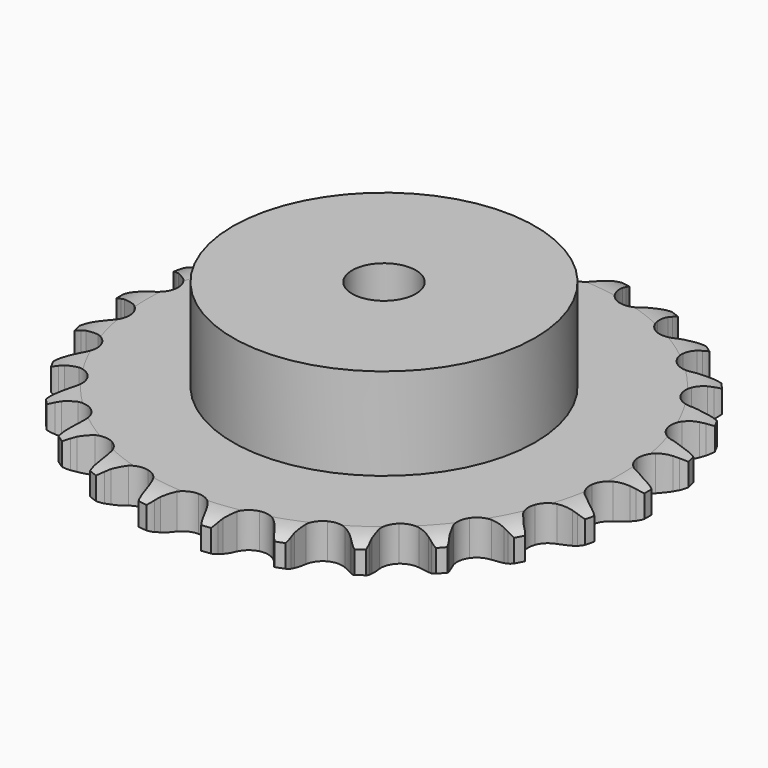
from build123d import *

# Parameters (mm, degrees)
PAD_DEPTH         = 11.1
SKETCH001_R       = 47.5
PAD001_DEPTH      = 40
SKETCH002_R       = 10
POCKET_DEPTH      = 0.001
POCKET_DEPTH_BACK = 40.001


with BuildPart() as part:
    # Sprocket → Pad (new body)
    with BuildSketch(Plane.XY):
        with BuildLine():
            ThreePointArc((-10.2495, 84.412229), (-8.684067, 82.666915), (-7.573609, 80.602071))
            Line((-7.573609, 80.602071), (-6.986274, 79.108095))
            ThreePointArc((-6.986274, 79.108095), (-6.051469, 77.141444), (-4.854497, 75.322423))
            ThreePointArc((-4.854497, 75.322423), (-2.708592, 73.552266), (0, 72.918314))
            ThreePointArc((0, 72.918314), (2.708592, 73.552266), (4.854497, 75.322423))
            ThreePointArc((4.854497, 75.322423), (6.051469, 77.141444), (6.986274, 79.108095))
            Line((6.986274, 79.108095), (7.573609, 80.602071))
            ThreePointArc((7.573609, 80.602071), (8.684067, 82.666915), (10.2495, 84.412229))
            ThreePointArc((10.2495, 84.412229), (11.351764, 82.342998), (11.935805, 80.072404))
            Line((11.935805, 80.072404), (12.148541, 78.481282))
            ThreePointArc((12.148541, 78.481282), (12.585532, 76.348065), (13.312402, 74.295448))
            ThreePointArc((13.312402, 74.295448), (14.972324, 72.063179), (17.450495, 70.79944))
            ThreePointArc((17.450495, 70.79944), (20.232095, 70.766762), (22.73927, 71.971933))
            Line((22.73927, 71.971933), (25.715072, 75.137432))
            ThreePointArc((25.715072, 75.137432), (26.162281, 75.804256), (26.642871, 76.447438))
            ThreePointArc((26.642871, 76.447438), (28.215212, 78.186532), (30.152837, 79.506497))
            ThreePointArc((30.152837, 79.506497), (30.727872, 77.233605), (30.751553, 74.88922))
            Line((30.751553, 74.88922), (30.577326, 73.293422))
            ThreePointArc((30.577326, 73.293422), (30.491107, 71.117614), (30.705632, 68.950691))
            ThreePointArc((30.705632, 68.950691), (31.783103, 66.386042), (33.88683, 64.56596))
            ThreePointArc((33.88683, 64.56596), (36.579781, 63.868552), (39.302519, 64.438696))
            Line((39.302519, 64.438696), (42.949403, 66.800056))
            ThreePointArc((42.949403, 66.800056), (43.543198, 67.340479), (44.163747, 67.849958))
            ThreePointArc((44.163747, 67.849958), (46.106591, 69.162231), (48.303801, 69.980137))
            ThreePointArc((48.303801, 69.980137), (48.318187, 67.635676), (47.780132, 65.353748))
            Line((47.780132, 65.353748), (47.229069, 63.846016))
            ThreePointArc((47.229069, 63.846016), (46.62465, 61.754066), (46.314363, 59.59877))
            ThreePointArc((46.314363, 59.59877), (46.746764, 56.85079), (48.353786, 54.580142))
            ThreePointArc((48.353786, 54.580142), (50.801584, 53.258533), (53.581649, 53.160517))
            Line((53.581649, 53.160517), (57.687671, 54.580503))
            ThreePointArc((57.687671, 54.580503), (58.393543, 54.963117), (59.117987, 55.309285))
            ThreePointArc((59.117987, 55.309285), (61.318422, 56.118473), (63.647523, 56.386785))
            ThreePointArc((63.647523, 56.386785), (63.100425, 54.107007), (62.031904, 52.020152))
            Line((62.031904, 52.020152), (61.13603, 50.68811))
            ThreePointArc((61.13603, 50.68811), (60.048538, 48.801596), (59.231471, 46.783186))
            ThreePointArc((59.231471, 46.783186), (58.993672, 44.011577), (60.010596, 41.422324))
            ThreePointArc((60.010596, 41.422324), (62.070984, 39.553322), (64.746808, 38.792841))
            Line((64.746808, 38.792841), (69.073341, 39.188929))
            ThreePointArc((69.073341, 39.188929), (69.850268, 39.391499), (70.636504, 39.554237))
            ThreePointArc((70.636504, 39.554237), (72.96665, 39.813313), (75.292282, 39.516438))
            ThreePointArc((75.292282, 39.516438), (74.215496, 37.433836), (72.678607, 35.663335))
            Line((72.678607, 35.663335), (71.489986, 34.584397))
            ThreePointArc((71.489986, 34.584397), (69.982623, 33.012954), (68.706261, 31.248733))
            ThreePointArc((68.706261, 31.248733), (67.812083, 28.61457), (68.179808, 25.85719))
            ThreePointArc((68.179808, 25.85719), (69.733043, 23.549415), (72.149118, 22.170666))
            Line((72.149118, 22.170666), (76.44472, 21.519837))
            ThreePointArc((76.44472, 21.519837), (77.247549, 21.530591), (78.049884, 21.500441))
            ThreePointArc((78.049884, 21.500441), (80.374321, 21.194348), (82.561328, 20.34954))
            ThreePointArc((82.561328, 20.34954), (81.017432, 18.585146), (79.101493, 17.233894))
            Line((79.101493, 17.233894), (77.689205, 16.470763))
            ThreePointArc((77.689205, 16.470763), (75.849572, 15.30572), (74.188093, 13.898217))
            ThreePointArc((74.188093, 13.898217), (72.689502, 11.554589), (72.386657, 8.789331))
            ThreePointArc((72.386657, 8.789331), (73.342472, 6.176903), (75.358383, 4.260013))
            Line((75.358383, 4.260013), (79.37341, 2.600091))
            ThreePointArc((79.37341, 2.600091), (80.155483, 2.418402), (80.927288, 2.197118))
            ThreePointArc((80.927288, 2.197118), (83.110929, 1.343645), (85.03221, 0))
            ThreePointArc((85.03221, 0), (83.110929, -1.343645), (80.927288, -2.197118))
            Line((80.927288, -2.197118), (79.37341, -2.600091))
            ThreePointArc((79.37341, -2.600091), (77.30842, -3.291027), (75.358383, -4.260013))
            ThreePointArc((75.358383, -4.260013), (73.342472, -6.176903), (72.386657, -8.789331))
            ThreePointArc((72.386657, -8.789331), (72.689502, -11.554589), (74.188093, -13.898217))
            Line((74.188093, -13.898217), (77.689205, -16.470763))
            ThreePointArc((77.689205, -16.470763), (78.405072, -16.834335), (79.101493, -17.233894))
            ThreePointArc((79.101493, -17.233894), (81.017432, -18.585146), (82.561328, -20.34954))
            ThreePointArc((82.561328, -20.34954), (80.374321, -21.194348), (78.049884, -21.500441))
            Line((78.049884, -21.500441), (76.44472, -21.519837))
            ThreePointArc((76.44472, -21.519837), (74.274383, -21.696512), (72.149118, -22.170666))
            ThreePointArc((72.149118, -22.170666), (69.733043, -23.549415), (68.179808, -25.85719))
            ThreePointArc((68.179808, -25.85719), (67.812083, -28.61457), (68.706261, -31.248733))
            Line((68.706261, -31.248733), (71.489986, -34.584397))
            ThreePointArc((71.489986, -34.584397), (72.098043, -35.108722), (72.678607, -35.663335))
            ThreePointArc((72.678607, -35.663335), (74.215496, -37.433836), (75.292282, -39.516438))
            ThreePointArc((75.292282, -39.516438), (72.96665, -39.813313), (70.636504, -39.554237))
            Line((70.636504, -39.554237), (69.073341, -39.188929))
            ThreePointArc((69.073341, -39.188929), (66.92379, -38.841074), (64.746808, -38.792841))
            ThreePointArc((64.746808, -38.792841), (62.070984, -39.553322), (60.010596, -41.422324))
            ThreePointArc((60.010596, -41.422324), (58.993672, -44.011577), (59.231471, -46.783186))
            Line((59.231471, -46.783186), (61.13603, -50.68811))
            ThreePointArc((61.13603, -50.68811), (61.600938, -51.342717), (62.031904, -52.020152))
            ThreePointArc((62.031904, -52.020152), (63.100425, -54.107007), (63.647523, -56.386785))
            ThreePointArc((63.647523, -56.386785), (61.318422, -56.118473), (59.117987, -55.309285))
            Line((59.117987, -55.309285), (57.687671, -54.580503))
            ThreePointArc((57.687671, -54.580503), (55.683828, -53.728334), (53.581649, -53.160517))
            ThreePointArc((53.581649, -53.160517), (50.801584, -53.258533), (48.353786, -54.580142))
            ThreePointArc((48.353786, -54.580142), (46.746764, -56.85079), (46.314363, -59.59877))
            Line((46.314363, -59.59877), (47.229069, -63.846016))
            ThreePointArc((47.229069, -63.846016), (47.523811, -64.59286), (47.780132, -65.353748))
            ThreePointArc((47.780132, -65.353748), (48.318187, -67.635676), (48.303801, -69.980137))
            ThreePointArc((48.303801, -69.980137), (46.106591, -69.162231), (44.163747, -67.849958))
            Line((44.163747, -67.849958), (42.949403, -66.800056))
            ThreePointArc((42.949403, -66.800056), (41.207726, -65.493099), (39.302519, -64.438696))
            ThreePointArc((39.302519, -64.438696), (36.579781, -63.868552), (33.88683, -64.56596))
            ThreePointArc((33.88683, -64.56596), (31.783103, -66.386042), (30.705632, -68.950691))
            Line((30.705632, -68.950691), (30.577326, -73.293422))
            ThreePointArc((30.577326, -73.293422), (30.684772, -74.089102), (30.751553, -74.88922))
            ThreePointArc((30.751553, -74.88922), (30.727872, -77.233605), (30.152837, -79.506497))
            ThreePointArc((30.152837, -79.506497), (28.215212, -78.186532), (26.642871, -76.447438))
            Line((26.642871, -76.447438), (25.715072, -75.137432))
            ThreePointArc((25.715072, -75.137432), (24.33678, -73.451642), (22.73927, -71.971933))
            ThreePointArc((22.73927, -71.971933), (20.232095, -70.766762), (17.450495, -70.79944))
            ThreePointArc((17.450495, -70.79944), (14.972324, -72.063179), (13.312402, -74.295448))
            Line((13.312402, -74.295448), (12.148541, -78.481282))
            ThreePointArc((12.148541, -78.481282), (12.062445, -79.279553), (11.935805, -80.072404))
            ThreePointArc((11.935805, -80.072404), (11.351764, -82.342998), (10.2495, -84.412229))
            ThreePointArc((10.2495, -84.412229), (8.684067, -82.666915), (7.573609, -80.602071))
            Line((7.573609, -80.602071), (6.986274, -79.108095))
            ThreePointArc((6.986274, -79.108095), (6.051469, -77.141444), (4.854497, -75.322423))
            ThreePointArc((4.854497, -75.322423), (2.708592, -73.552266), (0, -72.918314))
            ThreePointArc((0, -72.918314), (-2.708592, -73.552266), (-4.854497, -75.322423))
            Line((-4.854497, -75.322423), (-6.986274, -79.108095))
            ThreePointArc((-6.986274, -79.108095), (-7.260906, -79.862566), (-7.573609, -80.602071))
            ThreePointArc((-7.573609, -80.602071), (-8.684067, -82.666915), (-10.2495, -84.412229))
            ThreePointArc((-10.2495, -84.412229), (-11.351764, -82.342998), (-11.935805, -80.072404))
            Line((-11.935805, -80.072404), (-12.148541, -78.481282))
            ThreePointArc((-12.148541, -78.481282), (-12.585532, -76.348065), (-13.312402, -74.295448))
            ThreePointArc((-13.312402, -74.295448), (-14.972324, -72.063179), (-17.450495, -70.79944))
            ThreePointArc((-17.450495, -70.79944), (-20.232095, -70.766762), (-22.73927, -71.971933))
            Line((-22.73927, -71.971933), (-25.715072, -75.137432))
            ThreePointArc((-25.715072, -75.137432), (-26.162281, -75.804256), (-26.642871, -76.447438))
            ThreePointArc((-26.642871, -76.447438), (-28.215212, -78.186532), (-30.152837, -79.506497))
            ThreePointArc((-30.152837, -79.506497), (-30.727872, -77.233605), (-30.751553, -74.88922))
            Line((-30.751553, -74.88922), (-30.577326, -73.293422))
            ThreePointArc((-30.577326, -73.293422), (-30.491107, -71.117614), (-30.705632, -68.950691))
            ThreePointArc((-30.705632, -68.950691), (-31.783103, -66.386042), (-33.88683, -64.56596))
            ThreePointArc((-33.88683, -64.56596), (-36.579781, -63.868552), (-39.302519, -64.438696))
            Line((-39.302519, -64.438696), (-42.949403, -66.800056))
            ThreePointArc((-42.949403, -66.800056), (-43.543198, -67.340479), (-44.163747, -67.849958))
            ThreePointArc((-44.163747, -67.849958), (-46.106591, -69.162231), (-48.303801, -69.980137))
            ThreePointArc((-48.303801, -69.980137), (-48.318187, -67.635676), (-47.780132, -65.353748))
            Line((-47.780132, -65.353748), (-47.229069, -63.846016))
            ThreePointArc((-47.229069, -63.846016), (-46.62465, -61.754066), (-46.314363, -59.59877))
            ThreePointArc((-46.314363, -59.59877), (-46.746764, -56.85079), (-48.353786, -54.580142))
            ThreePointArc((-48.353786, -54.580142), (-50.801584, -53.258533), (-53.581649, -53.160517))
            Line((-53.581649, -53.160517), (-57.687671, -54.580503))
            ThreePointArc((-57.687671, -54.580503), (-58.393543, -54.963117), (-59.117987, -55.309285))
            ThreePointArc((-59.117987, -55.309285), (-61.318422, -56.118473), (-63.647523, -56.386785))
            ThreePointArc((-63.647523, -56.386785), (-63.100425, -54.107007), (-62.031904, -52.020152))
            Line((-62.031904, -52.020152), (-61.13603, -50.68811))
            ThreePointArc((-61.13603, -50.68811), (-60.048538, -48.801596), (-59.231471, -46.783186))
            ThreePointArc((-59.231471, -46.783186), (-58.993672, -44.011577), (-60.010596, -41.422324))
            ThreePointArc((-60.010596, -41.422324), (-62.070984, -39.553322), (-64.746808, -38.792841))
            Line((-64.746808, -38.792841), (-69.073341, -39.188929))
            ThreePointArc((-69.073341, -39.188929), (-69.850268, -39.391499), (-70.636504, -39.554237))
            ThreePointArc((-70.636504, -39.554237), (-72.96665, -39.813313), (-75.292282, -39.516438))
            ThreePointArc((-75.292282, -39.516438), (-74.215496, -37.433836), (-72.678607, -35.663335))
            Line((-72.678607, -35.663335), (-71.489986, -34.584397))
            ThreePointArc((-71.489986, -34.584397), (-69.982623, -33.012954), (-68.706261, -31.248733))
            ThreePointArc((-68.706261, -31.248733), (-67.812083, -28.61457), (-68.179808, -25.85719))
            ThreePointArc((-68.179808, -25.85719), (-69.733043, -23.549415), (-72.149118, -22.170666))
            Line((-72.149118, -22.170666), (-76.44472, -21.519837))
            ThreePointArc((-76.44472, -21.519837), (-77.247549, -21.530591), (-78.049884, -21.500441))
            ThreePointArc((-78.049884, -21.500441), (-80.374321, -21.194348), (-82.561328, -20.34954))
            ThreePointArc((-82.561328, -20.34954), (-81.017432, -18.585146), (-79.101493, -17.233894))
            Line((-79.101493, -17.233894), (-77.689205, -16.470763))
            ThreePointArc((-77.689205, -16.470763), (-75.849572, -15.30572), (-74.188093, -13.898217))
            ThreePointArc((-74.188093, -13.898217), (-72.689502, -11.554589), (-72.386657, -8.789331))
            ThreePointArc((-72.386657, -8.789331), (-73.342472, -6.176903), (-75.358383, -4.260013))
            Line((-75.358383, -4.260013), (-79.37341, -2.600091))
            ThreePointArc((-79.37341, -2.600091), (-80.155483, -2.418402), (-80.927288, -2.197118))
            ThreePointArc((-80.927288, -2.197118), (-83.110929, -1.343645), (-85.03221, 0))
            ThreePointArc((-85.03221, 0), (-83.110929, 1.343645), (-80.927288, 2.197118))
            Line((-80.927288, 2.197118), (-79.37341, 2.600091))
            ThreePointArc((-79.37341, 2.600091), (-77.30842, 3.291027), (-75.358383, 4.260013))
            ThreePointArc((-75.358383, 4.260013), (-73.342472, 6.176903), (-72.386657, 8.789331))
            ThreePointArc((-72.386657, 8.789331), (-72.689502, 11.554589), (-74.188093, 13.898217))
            Line((-74.188093, 13.898217), (-77.689205, 16.470763))
            ThreePointArc((-77.689205, 16.470763), (-78.405072, 16.834335), (-79.101493, 17.233894))
            ThreePointArc((-79.101493, 17.233894), (-81.017432, 18.585146), (-82.561328, 20.34954))
            ThreePointArc((-82.561328, 20.34954), (-80.374321, 21.194348), (-78.049884, 21.500441))
            Line((-78.049884, 21.500441), (-76.44472, 21.519837))
            ThreePointArc((-76.44472, 21.519837), (-74.274383, 21.696512), (-72.149118, 22.170666))
            ThreePointArc((-72.149118, 22.170666), (-69.733043, 23.549415), (-68.179808, 25.85719))
            ThreePointArc((-68.179808, 25.85719), (-67.812083, 28.61457), (-68.706261, 31.248733))
            Line((-68.706261, 31.248733), (-71.489986, 34.584397))
            ThreePointArc((-71.489986, 34.584397), (-72.098043, 35.108722), (-72.678607, 35.663335))
            ThreePointArc((-72.678607, 35.663335), (-74.215496, 37.433836), (-75.292282, 39.516438))
            ThreePointArc((-75.292282, 39.516438), (-72.96665, 39.813313), (-70.636504, 39.554237))
            Line((-70.636504, 39.554237), (-69.073341, 39.188929))
            ThreePointArc((-69.073341, 39.188929), (-66.92379, 38.841074), (-64.746808, 38.792841))
            ThreePointArc((-64.746808, 38.792841), (-62.070984, 39.553322), (-60.010596, 41.422324))
            ThreePointArc((-60.010596, 41.422324), (-58.993672, 44.011577), (-59.231471, 46.783186))
            Line((-59.231471, 46.783186), (-61.13603, 50.68811))
            ThreePointArc((-61.13603, 50.68811), (-61.600938, 51.342717), (-62.031904, 52.020152))
            ThreePointArc((-62.031904, 52.020152), (-63.100425, 54.107007), (-63.647523, 56.386785))
            ThreePointArc((-63.647523, 56.386785), (-61.318422, 56.118473), (-59.117987, 55.309285))
            Line((-59.117987, 55.309285), (-57.687671, 54.580503))
            ThreePointArc((-57.687671, 54.580503), (-55.683828, 53.728334), (-53.581649, 53.160517))
            ThreePointArc((-53.581649, 53.160517), (-50.801584, 53.258533), (-48.353786, 54.580142))
            ThreePointArc((-48.353786, 54.580142), (-46.746764, 56.85079), (-46.314363, 59.59877))
            Line((-46.314363, 59.59877), (-47.229069, 63.846016))
            ThreePointArc((-47.229069, 63.846016), (-47.523811, 64.59286), (-47.780132, 65.353748))
            ThreePointArc((-47.780132, 65.353748), (-48.318187, 67.635676), (-48.303801, 69.980137))
            ThreePointArc((-48.303801, 69.980137), (-46.106591, 69.162231), (-44.163747, 67.849958))
            Line((-44.163747, 67.849958), (-42.949403, 66.800056))
            ThreePointArc((-42.949403, 66.800056), (-41.207726, 65.493099), (-39.302519, 64.438696))
            ThreePointArc((-39.302519, 64.438696), (-36.579781, 63.868552), (-33.88683, 64.56596))
            ThreePointArc((-33.88683, 64.56596), (-31.783103, 66.386042), (-30.705632, 68.950691))
            Line((-30.705632, 68.950691), (-30.577326, 73.293422))
            ThreePointArc((-30.577326, 73.293422), (-30.684772, 74.089102), (-30.751553, 74.88922))
            ThreePointArc((-30.751553, 74.88922), (-30.727872, 77.233605), (-30.152837, 79.506497))
            ThreePointArc((-30.152837, 79.506497), (-28.215212, 78.186532), (-26.642871, 76.447438))
            Line((-26.642871, 76.447438), (-25.715072, 75.137432))
            ThreePointArc((-25.715072, 75.137432), (-24.33678, 73.451642), (-22.73927, 71.971933))
            ThreePointArc((-22.73927, 71.971933), (-20.232095, 70.766762), (-17.450495, 70.79944))
            ThreePointArc((-17.450495, 70.79944), (-14.972324, 72.063179), (-13.312402, 74.295448))
            Line((-13.312402, 74.295448), (-12.148541, 78.481282))
            ThreePointArc((-12.148541, 78.481282), (-12.062445, 79.279553), (-11.935805, 80.072404))
            ThreePointArc((-11.935805, 80.072404), (-11.351764, 82.342998), (-10.2495, 84.412229))
        make_face()
    extrude(amount=PAD_DEPTH)

    # Sketch → Groove (revolve, cut)
    with BuildSketch(Plane.XZ):
        with BuildLine():
            Line((74.464719, 0), (82.95, 0))
            Line((91.435281, 0), (82.95, 0))
            Line((91.435281, 11.1), (91.435281, 0))
            Line((82.95, 11.1), (91.435281, 11.1))
            Line((74.464719, 11.1), (82.95, 11.1))
            ThreePointArc((82.95, 9.1), (78.823618, 10.593242), (74.464719, 11.1))
            Line((82.95, 2), (82.95, 9.1))
            ThreePointArc((74.464719, 0), (78.823618, 0.506758), (82.95, 2))
        make_face()
    revolve(axis=Axis((0, 0, 0), (0, 0, 1)), mode=Mode.SUBTRACT)

    # Sketch001 → Pad001 (join)
    with BuildSketch(Plane.XY):
        Circle(SKETCH001_R)
    extrude(amount=PAD001_DEPTH)

    # Sketch002 → Pocket (cut, two sides)
    with BuildSketch(Plane.XY) as pocket_sk:
        Circle(SKETCH002_R)
    extrude(amount=-POCKET_DEPTH, mode=Mode.SUBTRACT)
    extrude(pocket_sk.sketch, amount=POCKET_DEPTH_BACK, mode=Mode.SUBTRACT)


solid = part.part
